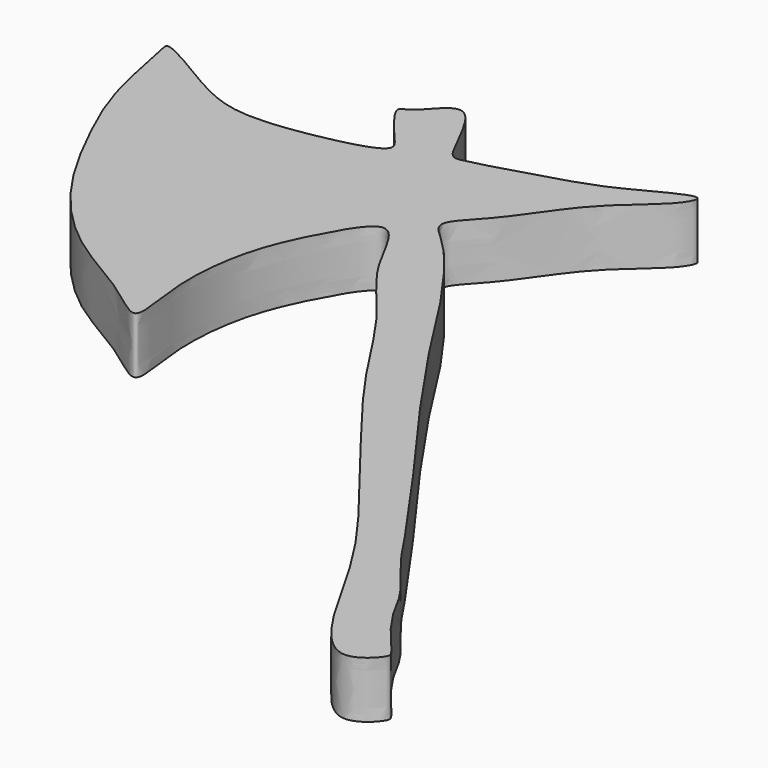
from build123d import *

# Parameters (mm, degrees)
F1_DEPTH = 5


with BuildPart() as f1:
    # F0 (on Top) → F1 (new body)
    with BuildSketch(Plane.XY):
        with BuildLine():
            add(Edge.make_bspline(
                [(-2.5421753526, 0), (-1.3823875286, -0.1236735303), (0.1655607645, 1.5174421306), (0.0798859402, 2.1902231821), (-1.7359835574, 4.1457105685), (-3.7672885636, 6.9383536143), (-4.9076813527, 9.5681507801), (-7.9981016712, 12.9873557713), (-9.7807728113, 15.8792515021), (-12.0532036306, 18.9797477507), (-16.0874843266, 24.8782435134), (-19.3716910639, 29.1529332935), (-24.3340172346, 36.3023886507), (-25.1406731404, 37.5236341826), (-26.391708416, 39.3650626109), (-29.7491643999, 44.8851478045), (-35.0941803693, 52.2974437986), (-38.3613794959, 54.4595802055), (-34.7419453394, 57.5537300461), (-31.2301140816, 63.5693869962), (-26.7866154478, 66.5912006963), (-25.2114858635, 69.7063980927), (-31.411961708, 66.1321825377), (-34.7518316016, 64.9879604216), (-42.0803393651, 62.8203218863), (-43.7137496505, 62.6872173657), (-46.615269238, 71.1659840063), (-49.4759847715, 66.3159904859), (-51.2238148163, 66.3102582527), (-48.1718741851, 62.692466882), (-46.4000049635, 60.7667287219), (-53.1327767839, 59.1563771716), (-59.4275665315, 58.4695715361), (-63.8864824038, 60.7616881298), (-69.2697233232, 64.1710577982), (-68.7371630873, 62.3624347781), (-67.6722818973, 55.9583221772), (-65.0549896561, 50.026984095), (-61.1694818441, 42.5250874493), (-55.3394412784, 36.3712168532), (-48.9809626054, 33.2914425275), (-44.7236407239, 29.3927844626), (-46.262208634, 35.8298643752), (-45.5946123034, 42.9012857844), (-43.2493334591, 47.9877423093), (-39.9246216656, 53.5920020151), (-37.0857323906, 46.2034536652), (-32.2448911304, 41.4239641387), (-27.3100544508, 33.0802675253), (-20.3522138102, 24.1899309726), (-12.9143218952, 14.7332892048), (-9.2392647241, 8.8756511345), (-4.6872899149, 0.2287434696), (-2.5421753526, 0)],
                knots=[0, 0, 0, 0, 0.0152862549, 0.0218604956, 0.0358277378, 0.0525264956, 0.0676072068, 0.0863857166, 0.1026531039, 0.1199729309, 0.1431714113, 0.1651785802, 0.1906555962, 0.2011897313, 0.2133703228, 0.2361808804, 0.2636011545, 0.2783382174, 0.2951976121, 0.3192318979, 0.3402828634, 0.3513279986, 0.3713200494, 0.3907470407, 0.4143315607, 0.4248788771, 0.4472605373, 0.4635849297, 0.4723258695, 0.4901576615, 0.5018485034, 0.5227027409, 0.5455160126, 0.5662860701, 0.5861963305, 0.5940144528, 0.6163873967, 0.6396679475, 0.665165166, 0.6908401236, 0.7152882749, 0.7316377347, 0.7499823477, 0.774430495, 0.7963298957, 0.8143541631, 0.8350455925, 0.8590798782, 0.8862358595, 0.9165153611, 0.946593097, 0.971726925, 1, 1, 1, 1], degree=3))
        make_face()
    extrude(amount=F1_DEPTH)


solid = f1.part
